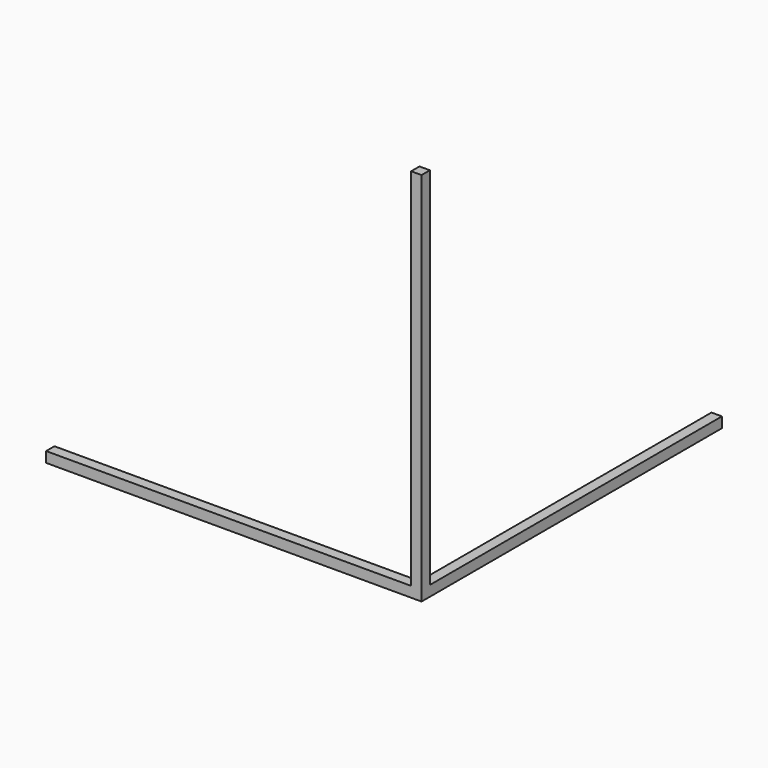
from build123d import *

# Parameters (mm, degrees)
F0_W     = 12.7
F0_H     = 444.5
F1_DEPTH = 12.7
F2_W     = 12.7
F2_H     = 12.7
F3_DEPTH = 444.5


with BuildPart() as f1:
    # F0 (on Top) → F1 (new body)
    with BuildSketch(Plane.XY):
        with Locations((450.85, 222.25)):
            Rectangle(F0_W, F0_H)
        Polygon((444.5, 0), (0, 0), (0, -12.7), (457.2, -12.7), (457.2, 0), align=None)
    extrude(amount=F1_DEPTH)

    # F2 (on face) → F3 (join)
    with BuildSketch(Plane.XY.offset(12.7)):
        with Locations((450.85, -6.35)):
            Rectangle(F2_W, F2_H)
    extrude(amount=F3_DEPTH)


solid = f1.part
